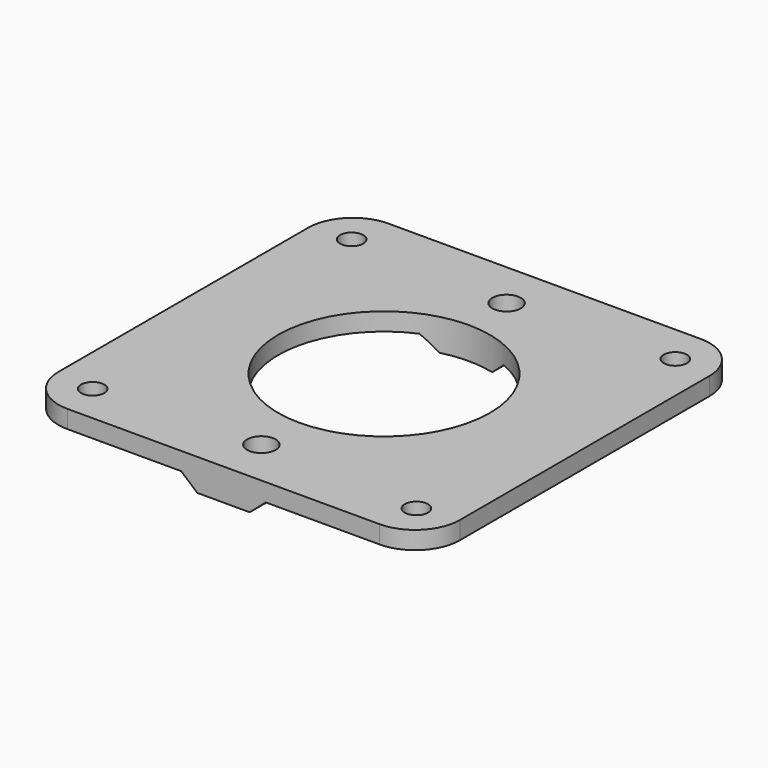
from build123d import *

# Parameters (mm, degrees)
SKETCH_W      = 45
SKETCH_H      = 45
SKETCH_R      = 1.3
PAD_DEPTH     = 2
PAD001_DEPTH  = 45
SKETCH002_R   = 11.872
SKETCH002_R_2 = 1.6
POCKET_DEPTH  = 3.561
FILLET_R      = 5


with BuildPart() as part:
    # Sketch → Pad (new body)
    with BuildSketch(Plane.XY):
        Rectangle(SKETCH_W, SKETCH_H)
        with Locations((-18.15, 18.15)):
            Circle(SKETCH_R, mode=Mode.SUBTRACT)
        with Locations((-18.15, -18.15)):
            Circle(SKETCH_R, mode=Mode.SUBTRACT)
        with Locations((18.15, -18.15)):
            Circle(SKETCH_R, mode=Mode.SUBTRACT)
        with Locations((18.15, 18.15)):
            Circle(SKETCH_R, mode=Mode.SUBTRACT)
    extrude(amount=PAD_DEPTH)

    # Sketch001 (on Face3 of Pad) → Pad001 (join)
    with BuildSketch(Plane.XZ.offset(22.5)):
        Polygon((0, 0), (-4.74, 0), (-2.94, -1.56), (0, -1.56), (2.94, -1.56), (4.74, 0), align=None)
    extrude(amount=-PAD001_DEPTH)

    # Sketch002 (on Face13 of Pad001) → Pocket (cut, through all)
    with BuildSketch(Plane(origin=(0, 0, -1.56), x_dir=(1, 0, 0), z_dir=(0, 0, -1))):
        Circle(SKETCH002_R)
        with Locations((0, 17.186)):
            Circle(SKETCH002_R_2)
        with Locations((0, -17.186)):
            Circle(SKETCH002_R_2)
    extrude(amount=-POCKET_DEPTH, mode=Mode.SUBTRACT)

    # Fillet
    fillet_edges = [part.edges().sort_by_distance(p)[0] for p in [
        (22.5, -22.5, 1),
        (22.5, 22.5, 1),
        (-22.5, -22.5, 1),
        (-22.5, 22.5, 1),
    ]]
    fillet(fillet_edges, radius=FILLET_R)


solid = part.part
